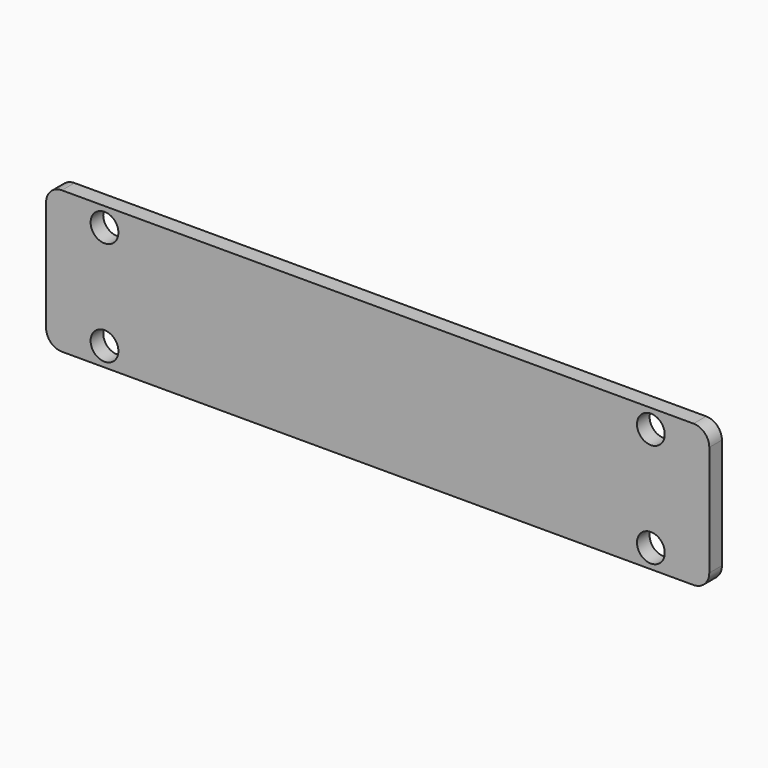
from build123d import *

# Parameters (mm, degrees)
F0_W     = 210
F0_H     = 45
F1_DEPTH = 5
F3_D     = 8.8
F4_R     = 5


with BuildPart() as f1:
    # F0 (on Front) → F1 (new body)
    with BuildSketch(Plane.XZ):
        with Locations((105, 22.5)):
            Rectangle(F0_W, F0_H)
    extrude(amount=F1_DEPTH)

    # F3 (through all)
    with Locations(Plane.XZ.offset(5)):
        with Locations((18.5, 39), (18.5, 6), (191.5, 39), (191.5, 6)):
            Hole(F3_D / 2)

    # F4
    f4_edges = [f1.edges().sort_by_distance(p)[0] for p in [
        (0, -2.5, 45),
        (0, -2.5, 0),
        (210, -2.5, 0),
        (210, -2.5, 45),
    ]]
    fillet(f4_edges, radius=F4_R)


solid = f1.part
